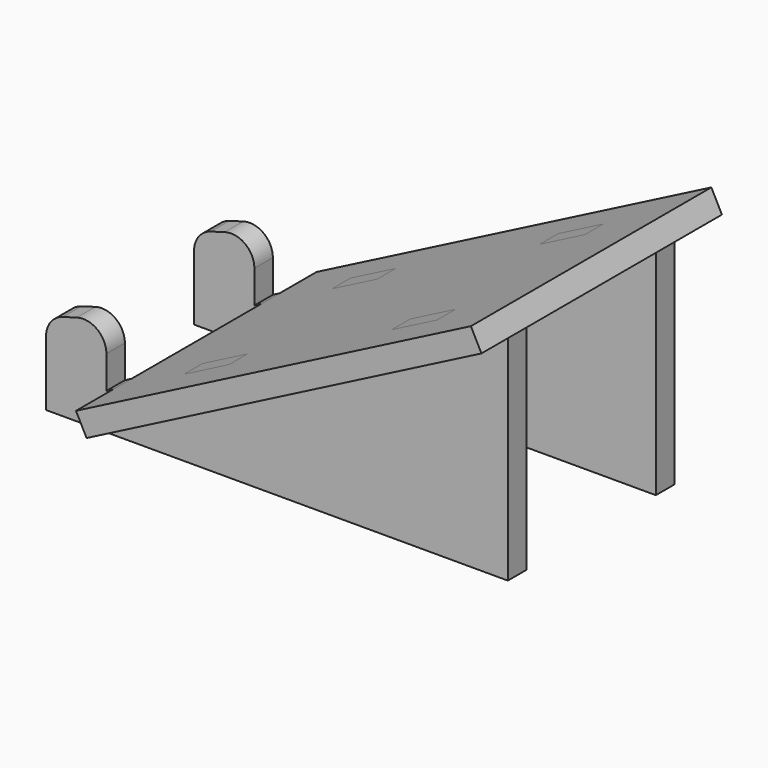
from build123d import *

# Parameters (mm, degrees)
F2_DEPTH = 5
F4_W     = 39.5006872239
F4_H     = 5
F4_W_2   = 17.249656388
F4_W_3   = 11
F5_DEPTH = 5
F7_R     = 5
F7_2_R   = 5


with BuildPart() as f2:
    # F0 (on Front) → F2 (new body)
    with BuildSketch(Plane.XZ):
        Polygon((-58.161765337, 0), (41.6911840439, 0), (41.6911840439, 52.5000020862), (-45.1225526631, 7.8921569511), (-45.1225526631, 21.6176491231), (-58.161765337, 17.8431384265), align=None)
    extrude(amount=F2_DEPTH)


with BuildPart() as f3_1:
    # F3: copy of F2
    add(f2.part.moved(Location((0, -40, 0))))


with BuildPart() as f5:
    # F4 (on face) → F5 (new body)
    with BuildSketch(Plane(origin=(-12.6332554785, 0, 24.5862608145), x_dir=(0.8894511728, 0, 0.4570302083), z_dir=(-0.4570302083, 0, 0.8894511728))):
        with Locations((13.0763594298, -2.5)):
            Rectangle(F4_W, F4_H)
        with Locations((52.4515312358, -2.5)):
            Rectangle(F4_W_2, F4_H)
        Polygon((61.0763594298, 0), (61.0763594298, 10), (-34.9236405702, 10), (-34.9236405702, 0), (-17.6739841821, 0), (-6.6739841821, 0), (32.8267030418, 0), (43.8267030418, 0), align=None)
        Polygon((61.0763594298, -55), (61.0763594298, -5), (43.8267030418, -5), (32.8267030418, -5), (-6.6739841821, -5), (-17.6739841821, -5), (-34.9236405702, -5), (-34.9236405702, -55), align=None)
        with Locations((-12.1739841821, -42.5)):
            Rectangle(F4_W_3, F4_H, mode=Mode.SUBTRACT)
        with Locations((38.3267030418, -42.5)):
            Rectangle(F4_W_3, F4_H, mode=Mode.SUBTRACT)
        with Locations((-26.2988123761, -2.5)):
            Rectangle(F4_W_2, F4_H)
    extrude(amount=-F5_DEPTH)


with BuildPart() as f3_1_1:
    add(f3_1.part)

    # F6: cut F5
    add(f5.part, mode=Mode.SUBTRACT)

    # F7#2
    f7_2_edges = [f3_1_1.edges().sort_by_distance(p)[0] for p in [
        (-45.122553, -42.5, 21.617649),
        (-58.161765, -42.5, 17.843138),
    ]]
    fillet(f7_2_edges, radius=F7_2_R)


with BuildPart() as f2_1:
    add(f2.part)

    # F6: cut F5
    add(f5.part, mode=Mode.SUBTRACT)

    # F7
    f7_edges = [f2_1.edges().sort_by_distance(p)[0] for p in [
        (-45.122553, -2.5, 21.617649),
        (-58.161765, -2.5, 17.843138),
    ]]
    fillet(f7_edges, radius=F7_R)


solid = Compound([f5.part, f3_1_1.part, f2_1.part])
